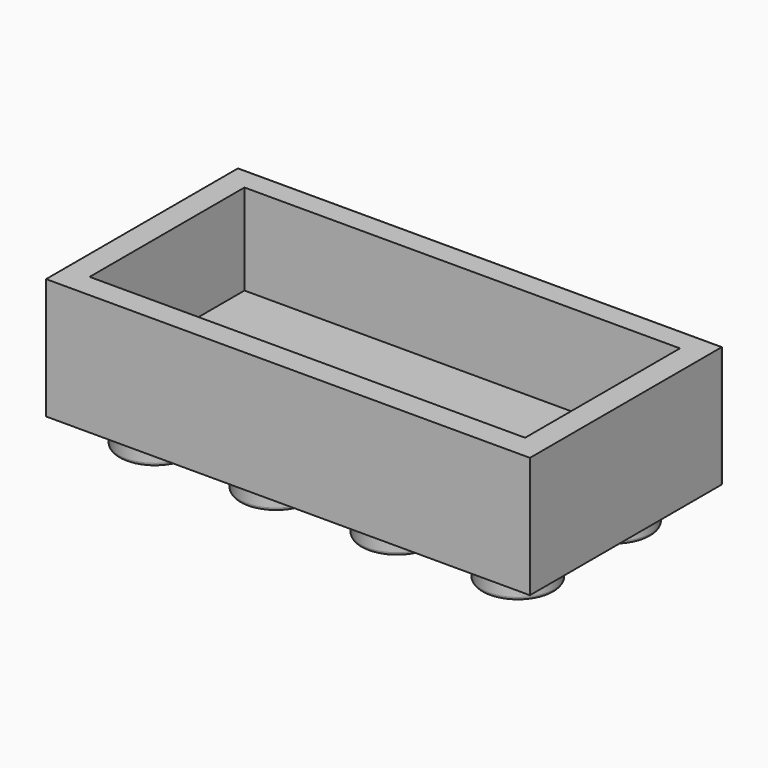
from build123d import *

# Parameters (mm, degrees)
F0_W     = 160
F0_H     = 80
F1_DEPTH = 40
F2_W     = 144
F2_H     = 64
F3_DEPTH = 30
F4_R     = 12
F5_DEPTH = 10
F6_R     = 1


with BuildPart() as f1:
    # F0 (on Top) → F1 (new body)
    with BuildSketch(Plane.XY):
        with Locations((2.551373, 1.503514)):
            Rectangle(F0_W, F0_H)
    extrude(amount=F1_DEPTH)

    # F2 (on face) → F3 (cut)
    with BuildSketch(Plane.XY.offset(40)):
        with Locations((2.551373, 1.503514)):
            Rectangle(F2_W, F2_H)
    extrude(amount=-F3_DEPTH, mode=Mode.SUBTRACT)

    # F4 (on face) → F5 (join)
    with BuildSketch(Plane(origin=(0, 0, 0), x_dir=(1, 0, 0), z_dir=(0, 0, -1))):
        with Locations((-57.448627, 18.496486)):
            Circle(F4_R)
        with Locations((-17.448627, 18.496486)):
            Circle(F4_R)
        with Locations((22.551373, 18.496486)):
            Circle(F4_R)
        with Locations((62.551373, 18.496486)):
            Circle(F4_R)
        with Locations((62.551373, -21.503514)):
            Circle(F4_R)
        with Locations((22.551373, -21.503514)):
            Circle(F4_R)
        with Locations((-17.448627, -21.503514)):
            Circle(F4_R)
        with Locations((-57.448627, -21.503514)):
            Circle(F4_R)
    extrude(amount=F5_DEPTH)

    # F6
    f6_edges = [f1.edges().sort_by_distance(p)[0] for p in [
        (82.551373, 41.503514, 20),
        (-77.448627, 41.503514, 20),
        (2.551373, 41.503514, 0),
        (2.551373, 41.503514, 40),
        (-29.448627, -18.496486, -10),
        (10.551373, -18.496486, -10),
        (50.551373, -18.496486, -10),
        (50.551373, 21.503514, -10),
        (10.551373, 21.503514, -10),
        (-29.448627, 21.503514, -10),
        (-69.448627, 21.503514, -10),
        (-69.448627, -18.496486, -10),
    ]]
    fillet(f6_edges, radius=F6_R)


solid = f1.part
